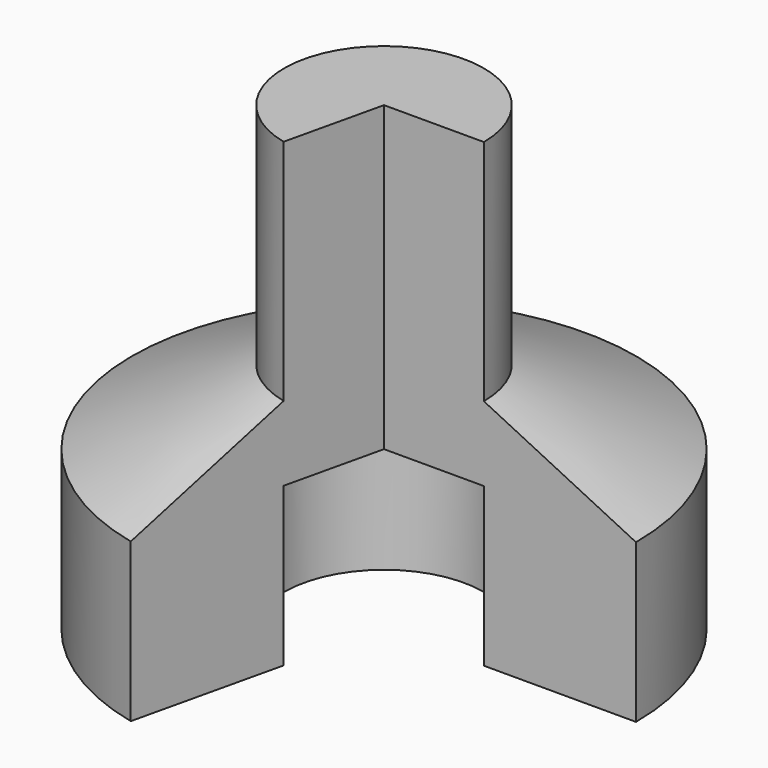
from build123d import *

# Parameters (mm, degrees)
F1_ANGLE = 256.95505


with BuildPart() as f1:
    # F0 (on Front) → F1 (revolve)
    with BuildSketch(Plane.XZ):
        Polygon((25.793329, 58.938958), (0, 58.938958), (0, -19.28474), (25.793329, -19.28474), (25.793329, -60.144275), (65.085977, -60.144275), (65.085977, -19.28474), (25.793329, 0), align=None)
    revolve(axis=Axis((0, 0, 19.827109), (0, 0, 1)), revolution_arc=F1_ANGLE)


solid = f1.part
